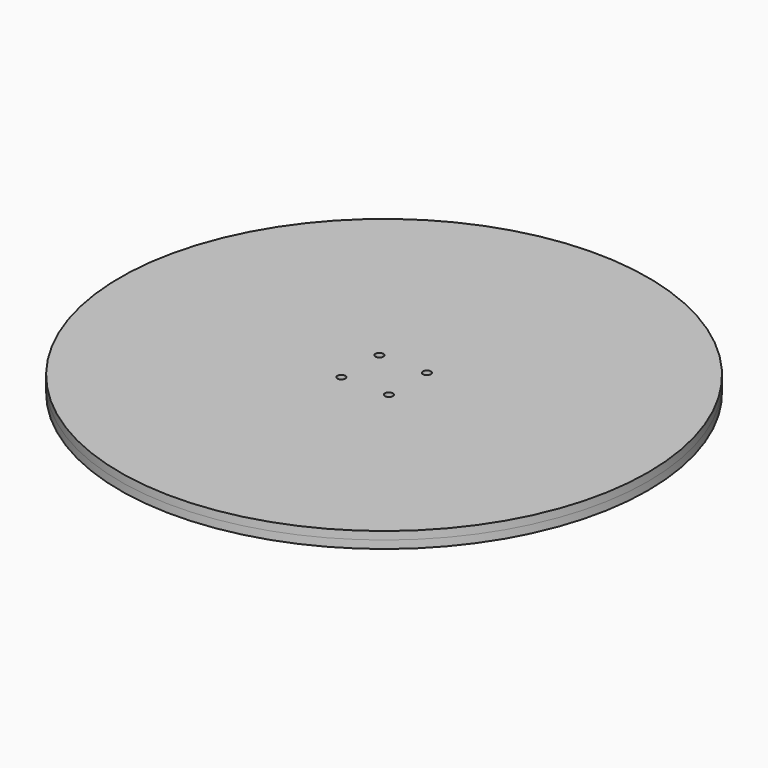
from build123d import *

# Parameters (mm, degrees)
F0_R      = 100
F1_DEPTH  = 3
F2_R      = 20
F3_DEPTH  = 3
F4_R      = 4.6
F5_DEPTH  = 7
F6_R      = 1.5
F7_DEPTH  = 25
F8_R      = 100
F8_R_2    = 20
F9_DEPTH  = 3
F10_R     = 1.5
F11_DEPTH = 25


with BuildPart() as f1:
    # F0 (on Top) → F1 (new body)
    with BuildSketch(Plane.XY):
        Circle(F0_R)
    extrude(amount=F1_DEPTH)


with BuildPart() as f3:
    # F2 (on face) → F3 (new body)
    with BuildSketch(Plane(origin=(0, 0, 0), x_dir=(1, 0, 0), z_dir=(0, 0, -1))):
        Circle(F2_R)
    extrude(amount=F3_DEPTH)

    # F4 (on face) → F5 (join)
    with BuildSketch(Plane(origin=(0, 0, -3), x_dir=(1, 0, 0), z_dir=(0, 0, -1))):
        Circle(F4_R)
        with BuildLine():
            ThreePointArc((1.6, -2.04939), (0, -2.6), (-1.6, -2.04939))
            Line((-1.6, -2.04939), (-1.6, 2.04939))
            ThreePointArc((-1.6, 2.04939), (0, 2.6), (1.6, 2.04939))
            Line((1.6, 2.04939), (1.6, -2.04939))
        make_face(mode=Mode.SUBTRACT)
    extrude(amount=F5_DEPTH)

    # F6 (on face) → F7 (cut)
    with BuildSketch(Plane(origin=(1.6, 0, 0), x_dir=(0, -1, 0), z_dir=(-1, 0, 0))):
        with Locations((0, -7)):
            Circle(F6_R)
    extrude(amount=-F7_DEPTH, mode=Mode.SUBTRACT)


with BuildPart() as f9:
    # F8 (on face) → F9 (new body)
    with BuildSketch(Plane(origin=(0, 0, 0), x_dir=(1, 0, 0), z_dir=(0, 0, -1))):
        Circle(F8_R)
        Circle(F8_R_2, mode=Mode.SUBTRACT)
    extrude(amount=F9_DEPTH)


with BuildPart() as f11_tool:
    # F10 (on face) → F11 (new body)
    with BuildSketch(Plane(origin=(0, 0, -3), x_dir=(1, 0, 0), z_dir=(0, 0, -1))):
        with Locations((-9, 9)):
            Circle(F10_R)
        with Locations((9, 9)):
            Circle(F10_R)
        with Locations((9, -9)):
            Circle(F10_R)
        with Locations((-9, -9)):
            Circle(F10_R)
    extrude(amount=-F11_DEPTH)


with BuildPart() as f1_1:
    add(f1.part)

    # F11: cut by f11_tool
    add(f11_tool.part, mode=Mode.SUBTRACT)


with BuildPart() as f3_1:
    add(f3.part)

    # F11: cut by f11_tool
    add(f11_tool.part, mode=Mode.SUBTRACT)


solid = Compound([f9.part, f1_1.part, f3_1.part])
